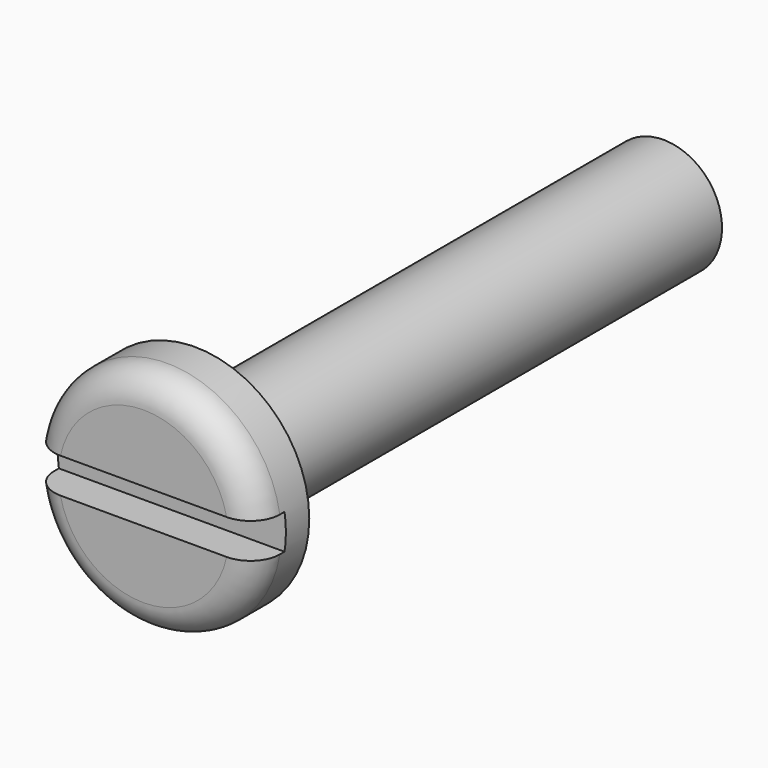
from build123d import *

# Parameters (mm, degrees)
F0_R     = 3.9
F1_DEPTH = 2.2
F2_R     = 1
F3_W     = 8
F3_H     = 1.2
F4_DEPTH = 1.2
F5_R     = 2
F6_DEPTH = 20


with BuildPart() as f1:
    # F0 (on Front) → F1 (new body)
    with BuildSketch(Plane.XZ):
        Circle(F0_R)
    extrude(amount=-F1_DEPTH)

    # F2
    f2_edges = [f1.edges().sort_by_distance(p)[0] for p in [
        (-3.9, 0, 0),
    ]]
    fillet(f2_edges, radius=F2_R)

    # F3 (on face) → F4 (cut)
    with BuildSketch(Plane.XZ):
        Rectangle(F3_W, F3_H)
    extrude(amount=-F4_DEPTH, mode=Mode.SUBTRACT)

    # F5 (on face) → F6 (join)
    with BuildSketch(Plane(origin=(0, 2.2, 0), x_dir=(-1, 0, 0), z_dir=(0, 1, 0))):
        Circle(F5_R)
    extrude(amount=F6_DEPTH)


solid = f1.part
